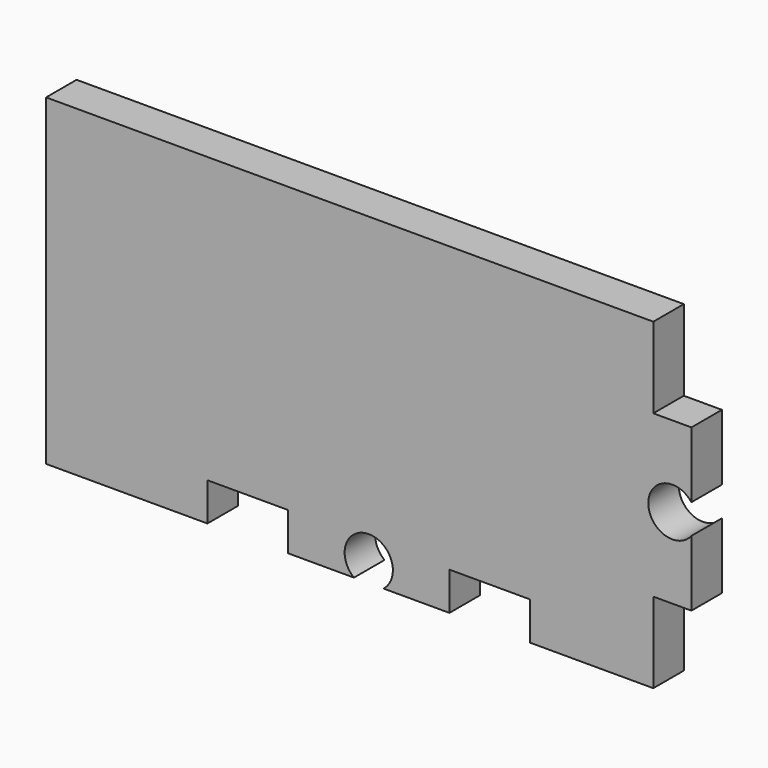
from build123d import *

# Parameters (mm, degrees)
F1_DEPTH = 3
F3_D     = 3.7973
F4_D     = 3.7973


with BuildPart() as f1:
    # F0 (on Front) → F1 (new body)
    with BuildSketch(Plane.XZ):
        Polygon((22.4, 12.7), (-25.4, 12.7), (-25.4, -12.7), (-12.7, -12.7), (-12.7, -9.7), (-6.35, -9.7), (-6.35, -12.7), (6.3499999233, -12.7), (6.3499999233, -9.7), (12.6999999233, -9.7), (12.6999999233, -12.7), (22.4, -12.7), (22.4, -6.35), (25.4, -6.35), (25.4, 6.35), (22.4, 6.35), align=None)
    extrude(amount=F1_DEPTH)

    # F3 (through all)
    with Locations(Plane.XZ.offset(3)):
        with Locations((0, -11.2)):
            Hole(F3_D / 2)

    # F4 (through all)
    with Locations(Plane.XZ.offset(3)):
        with Locations((23.9, 0)):
            Hole(F4_D / 2)


solid = f1.part
